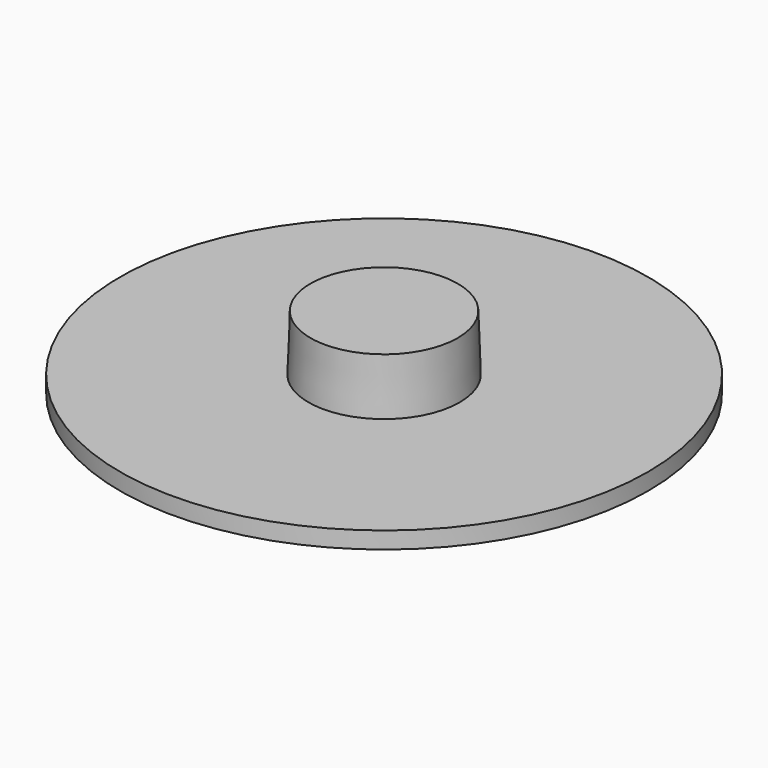
from build123d import *

# Parameters (mm, degrees)
F0_R     = 18.85
F1_DEPTH = 1.2
F2_R     = 5.4
F3_DEPTH = 4
F3_TAPER = 2


with BuildPart() as f1:
    # F0 (on Top) → F1 (new body)
    with BuildSketch(Plane.XY):
        Circle(F0_R)
    extrude(amount=F1_DEPTH)

    # F2 (on face) → F3 (join)
    with BuildSketch(Plane.XY.offset(1.2)):
        Circle(F2_R)
    extrude(amount=F3_DEPTH, taper=F3_TAPER)


solid = f1.part
